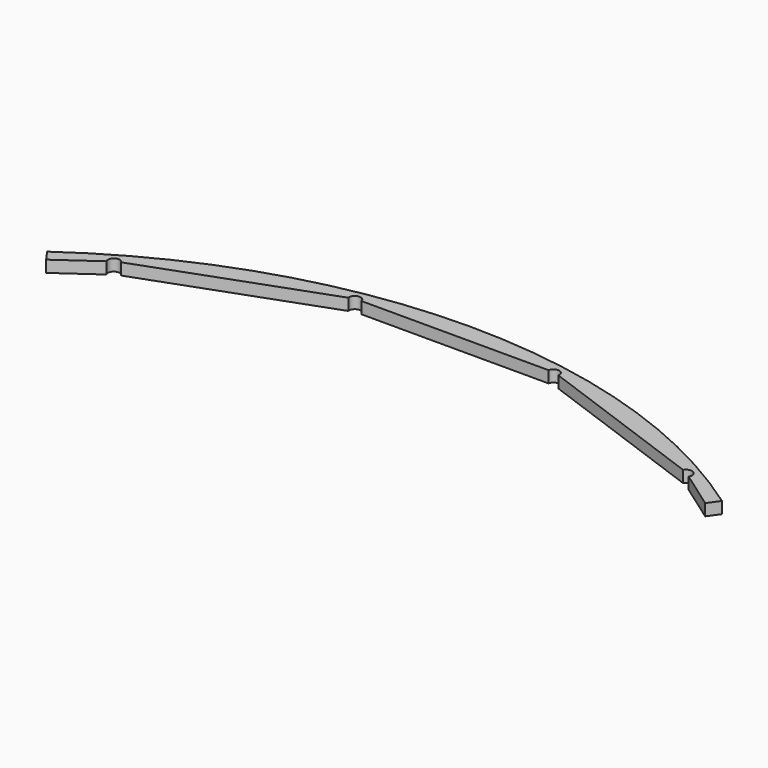
from build123d import *

# Parameters (mm, degrees)
F1_DEPTH = 5


with BuildPart() as f1:
    # F0 (on Top) → F1 (new body)
    with BuildSketch(Plane.XY):
        with BuildLine():
            Line((-144.526421, 203.990474), (-141.162316, 199.241011))
            Line((-141.162316, 199.241011), (-124.665064, 210.926224))
            ThreePointArc((-124.665064, 210.926224), (-123.75, 214.341287), (-120.334936, 213.426224))
            Line((-120.334936, 213.426224), (-45.005823, 240.843779))
            ThreePointArc((-45.005823, 240.843779), (-42.977924, 243.739919), (-40.081784, 241.71202))
            Line((-40.081784, 241.71202), (40.081784, 241.71202))
            ThreePointArc((40.081784, 241.71202), (42.977924, 243.739919), (45.005823, 240.843779))
            Line((45.005823, 240.843779), (120.334936, 213.426224))
            ThreePointArc((120.334936, 213.426224), (123.900847, 214.367044), (124.841667, 210.801133))
            Line((124.841667, 210.801133), (141.162316, 199.241011))
            Line((141.162316, 199.241011), (144.526421, 203.990474))
            ThreePointArc((144.526421, 203.990474), (0, 250), (-144.526421, 203.990474))
        make_face()
    extrude(amount=F1_DEPTH)


solid = f1.part
